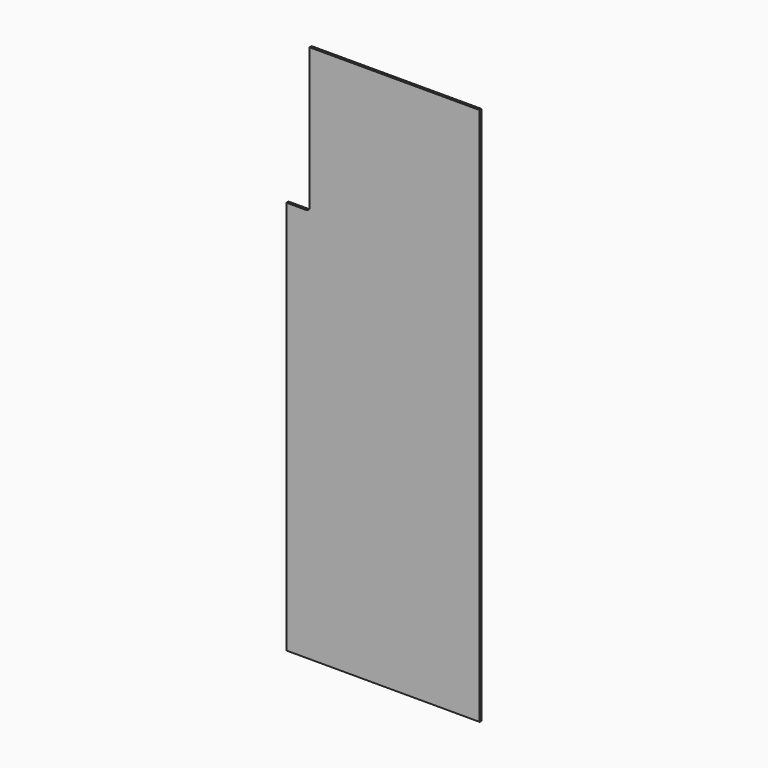
from build123d import *

# Parameters (mm, degrees)
F1_DEPTH = 10


with BuildPart() as f1:
    # F0 (on Front) → F1 (new body)
    with BuildSketch(Plane.XZ):
        with BuildLine():
            Line((0, 1530), (0, 0))
            Line((0, 0), (750, 0))
            Line((750, 0), (750, 2090))
            Line((750, 2090), (90, 2090))
            Line((90, 2090), (90, 1543))
            ThreePointArc((90, 1543), (86.192388, 1533.807612), (77, 1530))
            Line((77, 1530), (0, 1530))
        make_face()
    extrude(amount=-F1_DEPTH)


solid = f1.part
